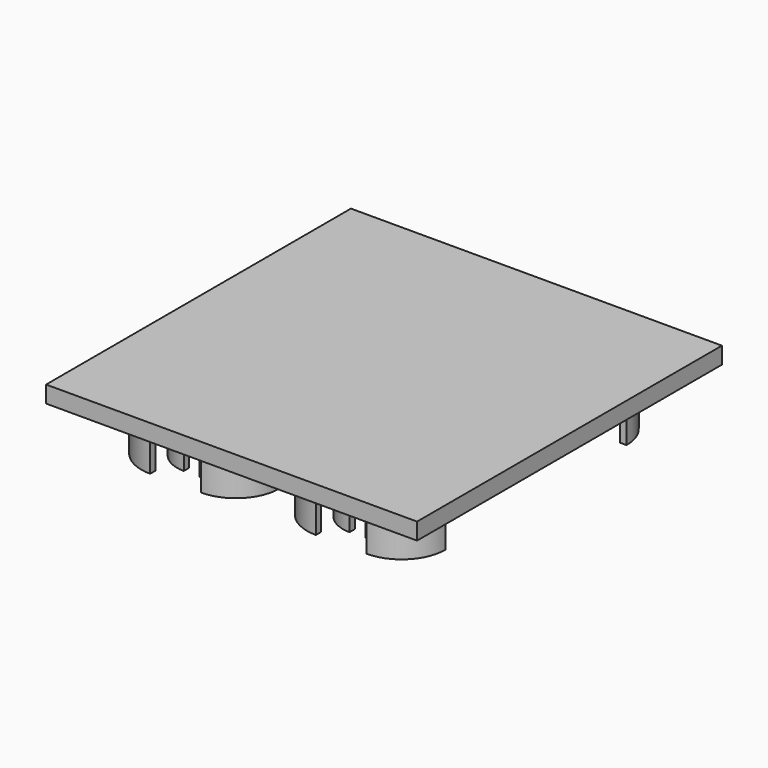
from build123d import *

# Parameters (mm, degrees)
F1_DEPTH = 15
F3_DEPTH = 5


with BuildPart() as f1:
    # F0 (on Top) → F1 (new body)
    with BuildSketch(Plane.XY):
        with BuildLine():
            Line((22.3435, 38.76), (22.3435, 40.76))
            ThreePointArc((22.3435, 40.76), (15.272432, 37.831068), (12.3435, 30.76))
            Line((12.3435, 30.76), (14.3435, 30.76))
            ThreePointArc((14.3435, 30.76), (16.686646, 36.416854), (22.3435, 38.76))
        make_face()
        with BuildLine():
            Line((35.0305, 30.76), (37.0305, 30.76))
            ThreePointArc((37.0305, 30.76), (34.101568, 37.831068), (27.0305, 40.76))
            Line((27.0305, 40.76), (27.0305, 38.76))
            ThreePointArc((27.0305, 38.76), (32.687354, 36.416854), (35.0305, 30.76))
        make_face()
        with BuildLine():
            Line((43.2595, 33.76), (45.2595, 33.76))
            ThreePointArc((45.2595, 33.76), (41.451888, 42.952388), (32.2595, 46.76))
            Line((32.2595, 46.76), (32.2595, 44.76))
            ThreePointArc((32.2595, 44.76), (40.037675, 41.538175), (43.2595, 33.76))
        make_face()
        with BuildLine():
            Line((17.1145, 44.76), (17.1145, 46.76))
            ThreePointArc((17.1145, 46.76), (7.922112, 42.952388), (4.1145, 33.76))
            Line((4.1145, 33.76), (6.1145, 33.76))
            ThreePointArc((6.1145, 33.76), (9.336325, 41.538175), (17.1145, 44.76))
        make_face()
        with BuildLine():
            Line((6.1145, -33.76), (4.1145, -33.76))
            ThreePointArc((4.1145, -33.76), (7.922112, -42.952388), (17.1145, -46.76))
            Line((17.1145, -46.76), (17.1145, -44.76))
            ThreePointArc((17.1145, -44.76), (9.336325, -41.538175), (6.1145, -33.76))
        make_face()
        with BuildLine():
            Line((14.3435, -30.76), (12.3435, -30.76))
            ThreePointArc((12.3435, -30.76), (15.272432, -37.831068), (22.3435, -40.76))
            Line((22.3435, -40.76), (22.3435, -38.76))
            ThreePointArc((22.3435, -38.76), (16.686646, -36.416854), (14.3435, -30.76))
        make_face()
        with BuildLine():
            Line((27.0305, -38.76), (27.0305, -40.76))
            ThreePointArc((27.0305, -40.76), (34.101568, -37.831068), (37.0305, -30.76))
            Line((37.0305, -30.76), (35.0305, -30.76))
            ThreePointArc((35.0305, -30.76), (32.687354, -36.416854), (27.0305, -38.76))
        make_face()
        with BuildLine():
            Line((45.2595, -33.76), (43.2595, -33.76))
            ThreePointArc((43.2595, -33.76), (40.037675, -41.538175), (32.2595, -44.76))
            Line((32.2595, -44.76), (32.2595, -46.76))
            ThreePointArc((32.2595, -46.76), (41.451888, -42.952388), (45.2595, -33.76))
        make_face()
        with BuildLine():
            ThreePointArc((-4.1145, 33.76), (-7.922112, 42.952388), (-17.1145, 46.76))
            Line((-17.1145, 46.76), (-17.1145, 44.76))
            ThreePointArc((-17.1145, 44.76), (-9.336325, 41.538175), (-6.1145, 33.76))
            Line((-6.1145, 33.76), (-4.1145, 33.76))
        make_face()
        with BuildLine():
            Line((-14.3435, 30.76), (-12.3435, 30.76))
            ThreePointArc((-12.3435, 30.76), (-15.272432, 37.831068), (-22.3435, 40.76))
            Line((-22.3435, 40.76), (-22.3435, 38.76))
            ThreePointArc((-22.3435, 38.76), (-16.686646, 36.416854), (-14.3435, 30.76))
        make_face()
        with BuildLine():
            Line((-27.0305, 38.76), (-27.0305, 40.76))
            ThreePointArc((-27.0305, 40.76), (-34.101568, 37.831068), (-37.0305, 30.76))
            Line((-37.0305, 30.76), (-35.0305, 30.76))
            ThreePointArc((-35.0305, 30.76), (-32.687354, 36.416854), (-27.0305, 38.76))
        make_face()
        with BuildLine():
            ThreePointArc((-43.2595, 33.76), (-40.037675, 41.538175), (-32.2595, 44.76))
            Line((-32.2595, 44.76), (-32.2595, 46.76))
            ThreePointArc((-32.2595, 46.76), (-41.451888, 42.952388), (-45.2595, 33.76))
            Line((-45.2595, 33.76), (-43.2595, 33.76))
        make_face()
        with BuildLine():
            ThreePointArc((-17.1145, -46.76), (-7.922112, -42.952388), (-4.1145, -33.76))
            Line((-4.1145, -33.76), (-6.1145, -33.76))
            ThreePointArc((-6.1145, -33.76), (-9.336325, -41.538175), (-17.1145, -44.76))
            Line((-17.1145, -44.76), (-17.1145, -46.76))
        make_face()
        with BuildLine():
            Line((-22.3435, -38.76), (-22.3435, -40.76))
            ThreePointArc((-22.3435, -40.76), (-15.272432, -37.831068), (-12.3435, -30.76))
            Line((-12.3435, -30.76), (-14.3435, -30.76))
            ThreePointArc((-14.3435, -30.76), (-16.686646, -36.416854), (-22.3435, -38.76))
        make_face()
        with BuildLine():
            ThreePointArc((-37.0305, -30.76), (-34.101568, -37.831068), (-27.0305, -40.76))
            Line((-27.0305, -40.76), (-27.0305, -38.76))
            ThreePointArc((-27.0305, -38.76), (-32.687354, -36.416854), (-35.0305, -30.76))
            Line((-35.0305, -30.76), (-37.0305, -30.76))
        make_face()
        with BuildLine():
            Line((-32.2595, -46.76), (-32.2595, -44.76))
            ThreePointArc((-32.2595, -44.76), (-40.037675, -41.538175), (-43.2595, -33.76))
            Line((-43.2595, -33.76), (-45.2595, -33.76))
            ThreePointArc((-45.2595, -33.76), (-41.451888, -42.952388), (-32.2595, -46.76))
        make_face()
    extrude(amount=F1_DEPTH)


with BuildPart() as f3:
    # F2 (on face) → F3 (new body)
    with BuildSketch(Plane.XY.offset(15)):
        Polygon((55.2595, 0), (55.2595, 56.76), (0, 56.76), (-55.2595, 56.76), (-55.2595, 0), (-55.2595, -56.76), (0, -56.76), (55.2595, -56.76), align=None)
    extrude(amount=F3_DEPTH)


solid = Compound([f1.part, f3.part])
